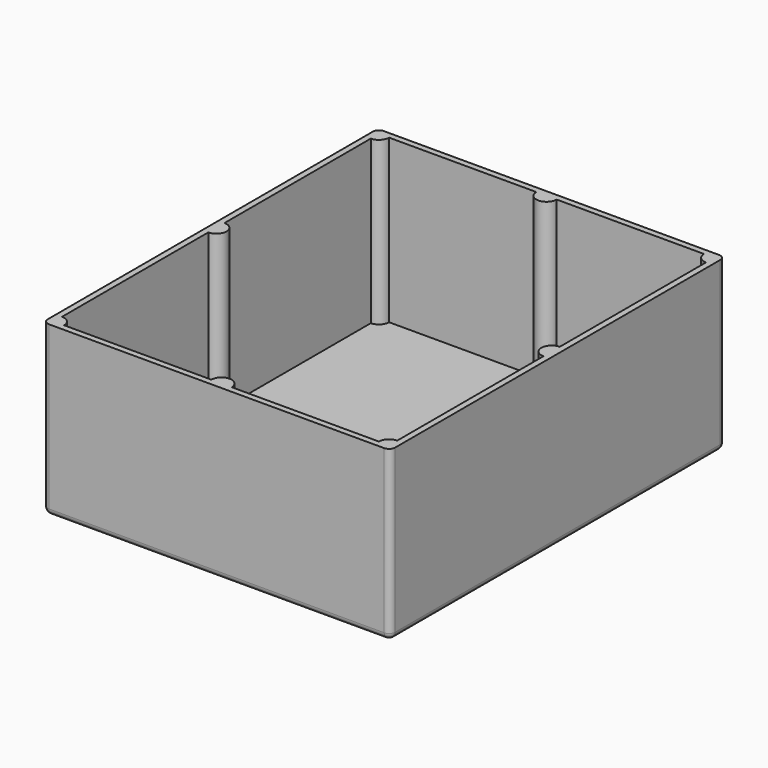
from build123d import *

# Parameters (mm, degrees)
SKETCH002_W  = 165
SKETCH002_H  = 200
PAD_DEPTH    = 80
THICKNESS_T  = 3
PAD004_DEPTH = 80


with BuildPart() as part:
    # Sketch002 → Pad (new body)
    with BuildSketch(Plane.XY):
        Rectangle(SKETCH002_W, SKETCH002_H)
    extrude(amount=PAD_DEPTH)

    # Thickness
    thickness_openings = [part.faces().sort_by_distance(p)[0] for p in [
        (0, 0, 80),
    ]]
    offset(amount=THICKNESS_T, openings=thickness_openings)

    # Sketch006 → Pad004 (join)
    with BuildSketch(Plane.XY.offset(80)):
        with BuildLine():
            ThreePointArc((-82.5, 95), (-78.964466, 96.464466), (-77.5, 100))
            Line((-82.5, 100), (-77.5, 100))
            Line((-82.5, 95), (-82.5, 100))
        make_face()
        with BuildLine():
            ThreePointArc((77.5, 100), (78.964466, 96.464466), (82.5, 95))
            Line((82.5, 100), (82.5, 95))
            Line((82.5, 100), (77.5, 100))
        make_face()
        with BuildLine():
            ThreePointArc((-77.5, -100), (-78.964466, -96.464466), (-82.5, -95))
            Line((-82.5, -100), (-82.5, -95))
            Line((-82.5, -100), (-77.5, -100))
        make_face()
        with BuildLine():
            ThreePointArc((82.5, -95), (78.964466, -96.464466), (77.5, -100))
            Line((77.5, -100), (82.5, -100))
            Line((82.5, -100), (82.5, -95))
        make_face()
        with BuildLine():
            ThreePointArc((5, -100), (0, -95), (-5, -100))
            Line((-5, -100), (5, -100))
        make_face()
        with BuildLine():
            ThreePointArc((-82.5, -5), (-77.5, 0), (-82.5, 5))
            Line((-82.5, 5), (-82.5, -5))
        make_face()
        with BuildLine():
            ThreePointArc((82.5, 5), (77.5, 0), (82.5, -5))
            Line((82.5, 5), (82.5, -5))
        make_face()
        with BuildLine():
            ThreePointArc((-5, 100), (0, 95), (5, 100))
            Line((-5, 100), (5, 100))
        make_face()
    extrude(amount=-PAD004_DEPTH)


solid = part.part
